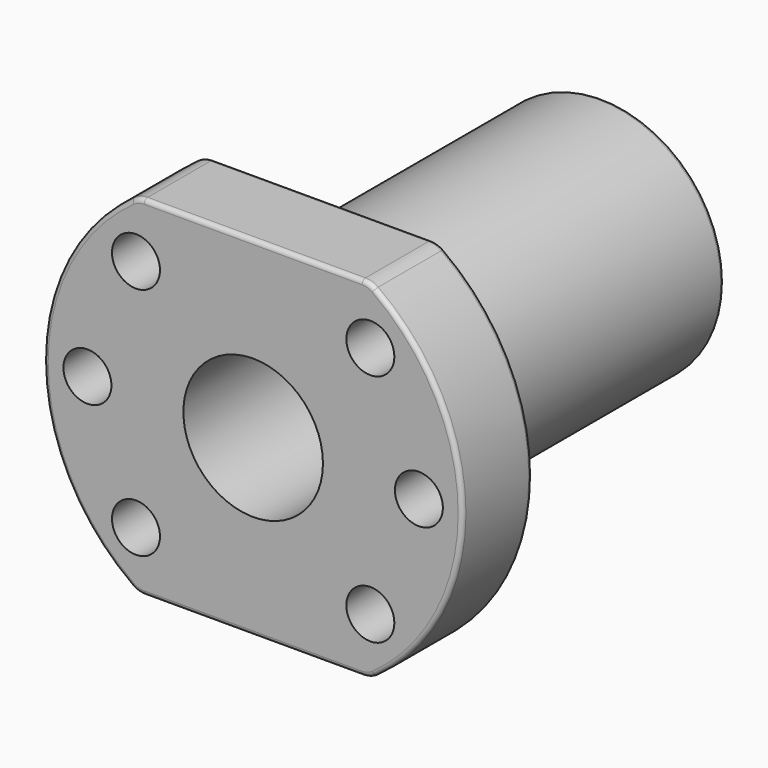
from build123d import *

# Parameters (mm, degrees)
F1_R     = 14
F1_R_2   = 8
F2_DEPTH = 50
F1_R_3   = 2.75
F3_DEPTH = 10
F4_R     = 2.5
F5_R     = 0.5


with BuildPart() as f2:
    # F1 (on Front) → F2 (new body)
    with BuildSketch(Plane.XZ):
        Circle(F1_R)
        Circle(F1_R_2, mode=Mode.SUBTRACT)
    extrude(amount=-F2_DEPTH)

    # F1 (on Front) → F3 (join)
    with BuildSketch(Plane.XZ):
        with BuildLine():
            Line((13.266499, 20), (-13.266499, 20))
            ThreePointArc((-13.266499, 20), (-24, 0), (-13.266499, -20))
            Line((-13.266499, -20), (13.266499, -20))
            ThreePointArc((13.266499, -20), (24, 0), (13.266499, 20))
        make_face()
        with Locations((-13.435029, -13.435029)):
            Circle(F1_R_3, mode=Mode.SUBTRACT)
        with Locations((-19, 0)):
            Circle(F1_R_3, mode=Mode.SUBTRACT)
        with Locations((13.435029, -13.435029)):
            Circle(F1_R_3, mode=Mode.SUBTRACT)
        Circle(F1_R, mode=Mode.SUBTRACT)
        with Locations((19, 0)):
            Circle(F1_R_3, mode=Mode.SUBTRACT)
        with Locations((-13.435029, 13.435029)):
            Circle(F1_R_3, mode=Mode.SUBTRACT)
        with Locations((13.435029, 13.435029)):
            Circle(F1_R_3, mode=Mode.SUBTRACT)
    extrude(amount=-F3_DEPTH)

    # F4
    f4_edges = [f2.edges().sort_by_distance(p)[0] for p in [
        (-13.266499, 5, 20),
        (-13.266499, 5, -20),
        (13.266499, 5, 20),
        (13.266499, 5, -20),
    ]]
    fillet(f4_edges, radius=F4_R)

    # F5
    f5_edges = [f2.edges().sort_by_distance(p)[0] for p in [
        (24, 10, 0),
        (24, 0, 0),
        (-14, 10, 0),
        (-14, 50, 0),
    ]]
    fillet(f5_edges, radius=F5_R)


solid = f2.part
